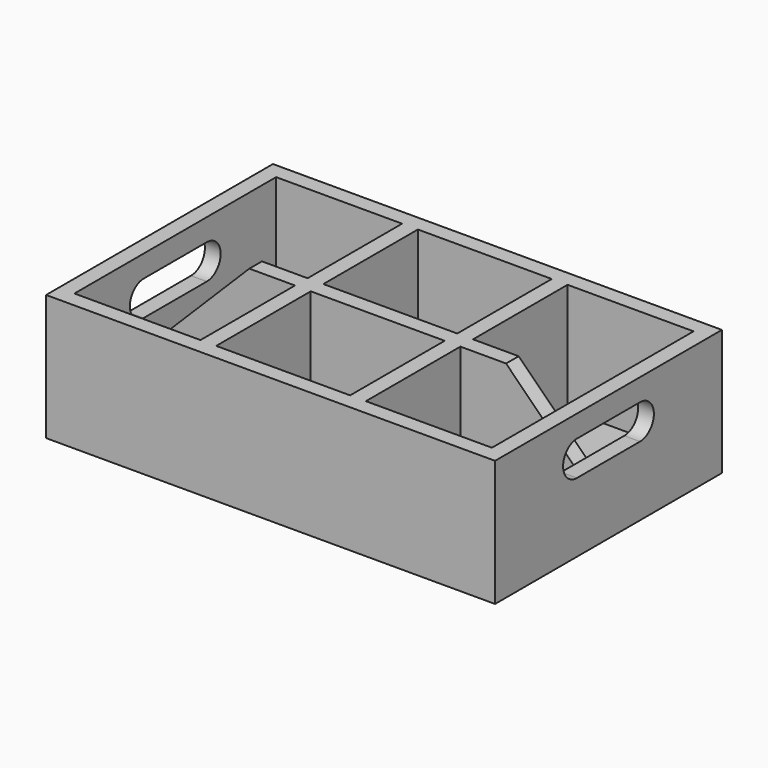
from build123d import *

# Parameters (mm, degrees)
F0_W     = 285
F0_H     = 80
F1_DEPTH = 180
F2_W     = 265
F2_H     = 160
F3_DEPTH = 70
F5_DEPTH = 285.001
F7_DEPTH = 70
F8_SIZE2 = 50
F8_SIZE  = 50


with BuildPart() as f1:
    # F0 (on Front) → F1 (new body)
    with BuildSketch(Plane.XZ):
        with Locations((142.5, 40)):
            Rectangle(F0_W, F0_H)
    extrude(amount=-F1_DEPTH)

    # F2 (on face) → F3 (cut)
    with BuildSketch(Plane.XY.offset(80)):
        with Locations((142.5, 90)):
            Rectangle(F2_W, F2_H)
    extrude(amount=-F3_DEPTH, mode=Mode.SUBTRACT)

    # F4 (on face) → F5 (cut, through all)
    with BuildSketch(Plane.YZ.offset(285)):
        with BuildLine():
            Line((115, 66), (65, 66))
            ThreePointArc((65, 66), (54, 55), (65, 44))
            Line((65, 44), (115, 44))
            ThreePointArc((115, 44), (126, 55), (115, 66))
        make_face()
    extrude(amount=-F5_DEPTH, mode=Mode.SUBTRACT)

    # F6 (on face) → F7 (join)
    with BuildSketch(Plane.XY.offset(80)):
        Polygon((100, 170), (90, 170), (90, 95), (11, 95), (11, 85), (90, 85), (90, 10), (100, 10), (100, 85), (185, 85), (185, 10), (195, 10), (195, 85), (274, 85), (274, 95), (195, 95), (195, 170), (185, 170), (185, 95), (100, 95), align=None)
    extrude(amount=-F7_DEPTH)

    # F8
    f8_edges = [f1.edges().sort_by_distance(p)[0] for p in [
        (11, 90, 80),
        (274, 90, 80),
    ]]
    chamfer(f8_edges, length=F8_SIZE, length2=F8_SIZE2)


solid = f1.part
